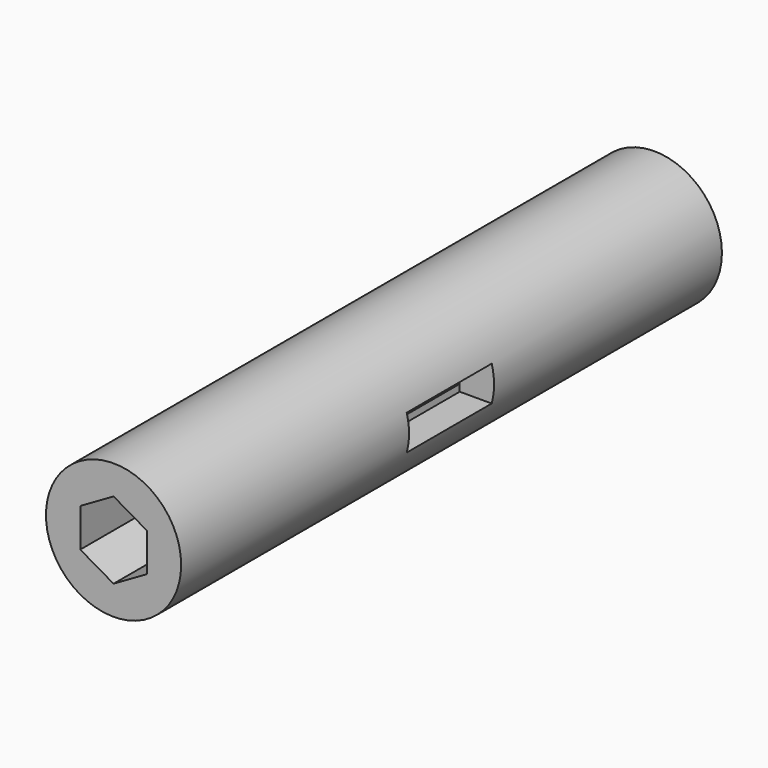
from build123d import *

# Parameters (mm, degrees)
F0_R     = 15
F1_DEPTH = 75
F3_DEPTH = 150
F4_W     = 23.585714
F4_H     = 7.8
F5_DEPTH = 21


with BuildPart() as f1:
    # F0 (on Front) → F1 (new body, symmetric)
    with BuildSketch(Plane.XZ):
        Circle(F0_R)
    extrude(amount=F1_DEPTH, both=True)

    # F2 (on face) → F3 (cut, symmetric)
    with BuildSketch(Plane.XZ.offset(75)):
        Polygon((-7.38566, -4.264113), (0, -8.528226), (7.38566, -4.264113), (7.38566, 4.264113), (0, 8.528226), (-7.38566, 4.264113), align=None)
    extrude(amount=F3_DEPTH, both=True, mode=Mode.SUBTRACT)

    # F4 (on Right) → F5 (cut, symmetric)
    with BuildSketch(Plane.YZ):
        Rectangle(F4_W, F4_H)
    extrude(amount=F5_DEPTH, both=True, mode=Mode.SUBTRACT)


solid = f1.part
